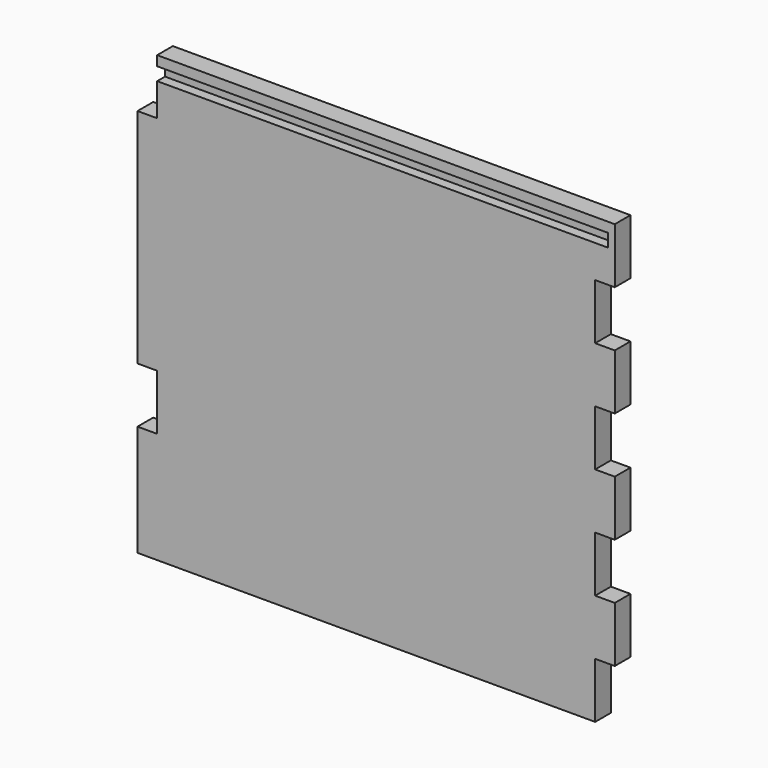
from build123d import *

# Parameters (mm, degrees)
F1_DEPTH = 19.05
F2_W     = 9.525
F2_H     = 12.7
F3_DEPTH = 438.15


with BuildPart() as f1:
    # F0 (on Front) → F1 (new body)
    with BuildSketch(Plane.XZ):
        Polygon((0, 107.95), (0, 0), (444.5, 0), (444.5, 53.975), (463.55, 53.975), (463.55, 107.95), (444.5, 107.95), (444.5, 161.925), (463.55, 161.925), (463.55, 215.9), (444.5, 215.9), (444.5, 269.875), (463.55, 269.875), (463.55, 323.85), (444.5, 323.85), (444.5, 377.825), (463.55, 377.825), (463.55, 431.8), (19.05, 431.8), (19.05, 377.825), (0, 377.825), (0, 161.925), (19.05, 161.925), (19.05, 107.95), align=None)
    extrude(amount=F1_DEPTH)

    # F2 (on face) → F3 (cut)
    with BuildSketch(Plane(origin=(19.05, 0, 0), x_dir=(0, -1, 0), z_dir=(-1, 0, 0))):
        with Locations((14.2875, 415.925)):
            Rectangle(F2_W, F2_H)
    extrude(amount=-F3_DEPTH, mode=Mode.SUBTRACT)


solid = f1.part
